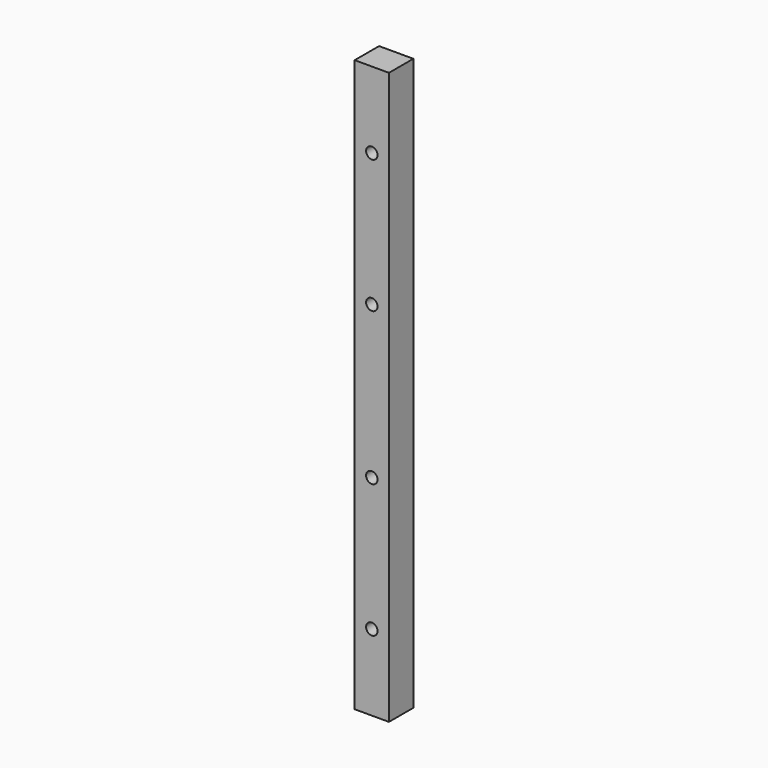
from build123d import *

# Parameters (mm, degrees)
F0_W     = 9
F0_H     = 8
F1_DEPTH = 150
F2_R     = 1.5
F3_DEPTH = 9


with BuildPart() as f1:
    # F0 (on Top) → F1 (new body)
    with BuildSketch(Plane.XY):
        Rectangle(F0_W, F0_H)
    extrude(amount=F1_DEPTH)

    # F2 (on face) → F3 (cut)
    with BuildSketch(Plane(origin=(0, 4, 0), x_dir=(-1, 0, 0), z_dir=(0, 1, 0))):
        with Locations((0, 20)):
            Circle(F2_R)
        with Locations((0, 55)):
            Circle(F2_R)
        with Locations((0, 95)):
            Circle(F2_R)
        with Locations((0, 130)):
            Circle(F2_R)
    extrude(amount=-F3_DEPTH, mode=Mode.SUBTRACT)


solid = f1.part
